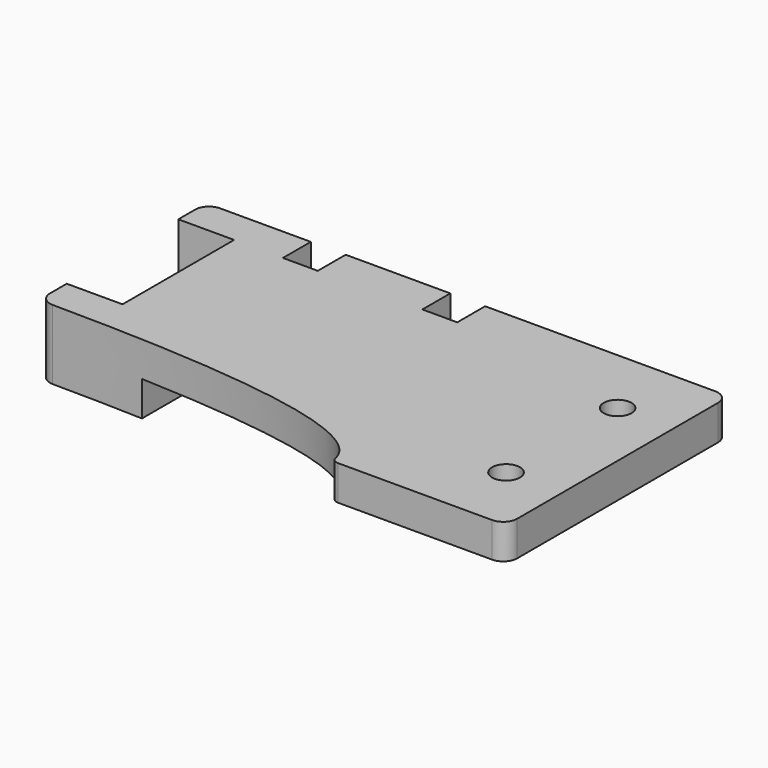
from build123d import *

# Parameters (mm, degrees)
PAD_DEPTH       = 10
SKETCH001_W     = 25
SKETCH001_H     = 50
POCKET_DEPTH    = 5
SKETCH002_R     = 2
POCKET001_DEPTH = 12
FILLET_R        = 2
FILLET001_R     = 1
POCKET002_DEPTH = 5
SKETCH004_W     = 40
SKETCH004_H     = 30
POCKET003_DEPTH = 5


with BuildPart() as part:
    # Sketch → Pad (new body)
    with BuildSketch(Plane.XY):
        with BuildLine():
            Line((-25, 0), (0, 0))
            Line((0, 0), (0, 40))
            Line((0, 40), (-75, 40))
            Line((-75, 40), (-75, 35))
            Line((-75, 35), (-67, 35))
            Line((-67, 35), (-67, 15))
            Line((-67, 15), (-75, 15))
            Line((-75, 15), (-75, 10))
            add(Edge.make_bspline(
                [(-25, 0), (-25, 10), (-75, 10)],
                knots=[0, 0, 0, 1, 1, 1], degree=2))
        make_face()
    extrude(amount=PAD_DEPTH)

    # Sketch001 → Pocket (cut)
    with BuildSketch(Plane.XY):
        with Locations((-7.5, 20)):
            Rectangle(SKETCH001_W, SKETCH001_H)
    extrude(amount=POCKET_DEPTH, mode=Mode.SUBTRACT)

    # Sketch002 → Pocket001 (cut)
    with BuildSketch(Plane.XY):
        with Locations((-8, 30)):
            Circle(SKETCH002_R)
        with Locations((-8, 10)):
            Circle(SKETCH002_R)
    extrude(amount=POCKET001_DEPTH, mode=Mode.SUBTRACT)

    # Fillet
    fillet_edges = [part.edges().sort_by_distance(p)[0] for p in [
        (0, 40, 7.5),
        (0, 0, 7.5),
        (-75, 10, 5),
        (-75, 40, 5),
    ]]
    fillet(fillet_edges, radius=FILLET_R)

    # Fillet001
    fillet001_edges = [part.edges().sort_by_distance(p)[0] for p in [
        (-25, 0, 5),
    ]]
    fillet(fillet001_edges, radius=FILLET001_R)

    # Sketch003 (on Face13 of Fillet001) → Pocket002 (cut)
    with BuildSketch(Plane(origin=(0, 40, 0), x_dir=(-1, 0, 0), z_dir=(0, 1, 0))):
        Polygon((65, -5), (65, 5), (60, 5), (60, 15), (55, 15), (55, 5), (50, 5), (50, -5), align=None)
        Polygon((45, -5), (45, 5), (40, 5), (40, 15), (35, 15), (35, 5), (30, 5), (30, -5), align=None)
    extrude(amount=-POCKET002_DEPTH, mode=Mode.SUBTRACT)

    # Sketch004 (on Face5 of Pocket002) → Pocket003 (cut)
    with BuildSketch(Plane(origin=(0, 0, 0), x_dir=(1, 0, 0), z_dir=(0, 0, -1))):
        with Locations((-40, -15)):
            Rectangle(SKETCH004_W, SKETCH004_H)
    extrude(amount=-POCKET003_DEPTH, mode=Mode.SUBTRACT)


solid = part.part
